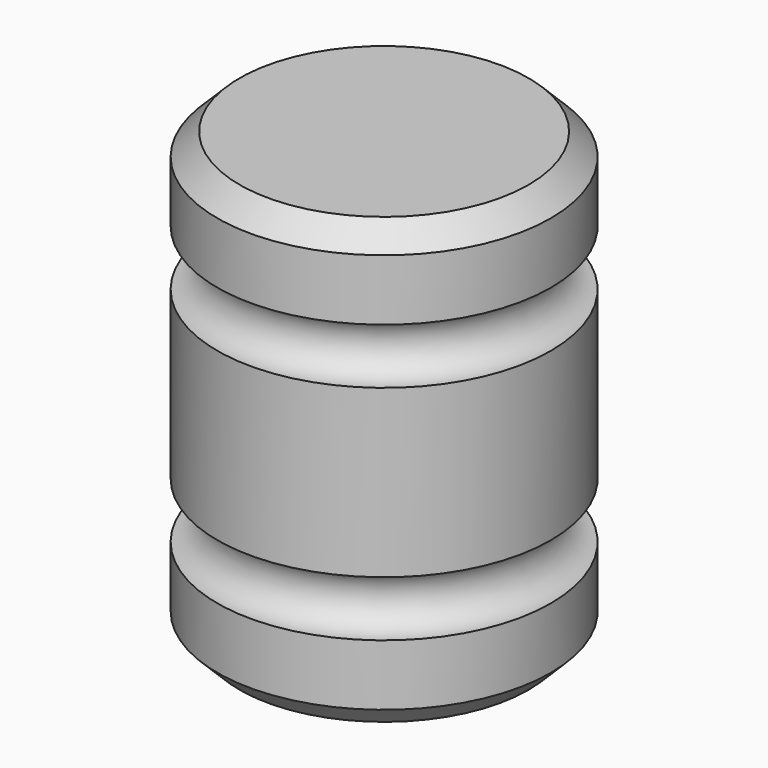
from build123d import *

# Parameters (mm, degrees)
F2_SIZE = 5.08
F3_SIZE = 5.08


with BuildPart() as f1:
    # F0 (on Front) → F1 (revolve)
    with BuildSketch(Plane.XZ):
        with BuildLine():
            Line((-38.1, 0), (0, 0))
            Line((0, 0), (0, 19.05))
            ThreePointArc((0, 19.05), (-6.35, 25.4), (0, 31.75))
            Line((0, 31.75), (0, 69.85))
            ThreePointArc((0, 69.85), (-6.35, 76.2), (0, 82.55))
            Line((0, 82.55), (0, 101.6))
            Line((0, 101.6), (-38.1, 101.6))
            Line((-38.1, 101.6), (-38.1, 0))
        make_face()
    revolve(axis=Axis((-38.1, 0, 50.8), (0, 0, 1)))

    # F2
    f2_edges = [f1.edges().sort_by_distance(p)[0] for p in [
        (-76.2, 0, 0),
    ]]
    chamfer(f2_edges, length=F2_SIZE)

    # F3
    f3_edges = [f1.edges().sort_by_distance(p)[0] for p in [
        (-76.2, 0, 101.6),
    ]]
    chamfer(f3_edges, length=F3_SIZE)


solid = f1.part
